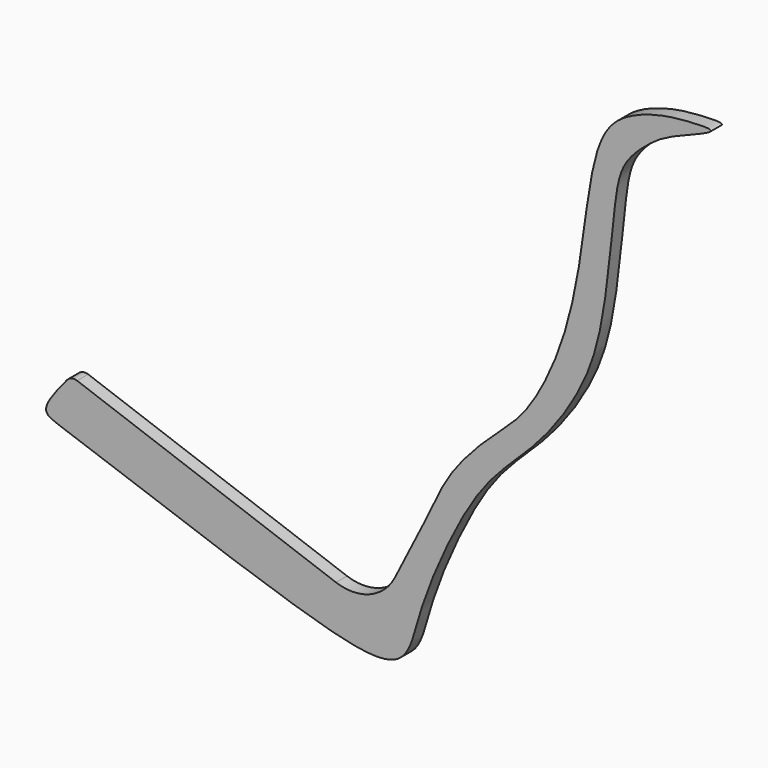
from build123d import *

# Parameters (mm, degrees)
F1_DEPTH = 19.05


with BuildPart() as f1:
    # F0 (on Front) → F1 (new body)
    with BuildSketch(Plane.XZ):
        with BuildLine():
            Line((24.3858303875, -219.1917300224), (-332.3238043113, -90.505011635))
            ThreePointArc((-332.3238043113, -90.505011635), (-339.9437320967, -90.1903517323), (-346.369996661, -94.2971064192))
            add(Edge.make_bspline(
                [(105.533413589, -186.9602054358), (120.5035664294, -158.0857231962), (148.8563864032, -103.3987066039), (178.1343429068, -34.575063737), (236.7987951864, 27.7531144642), (287.3196600748, 67.7275808122), (337.8324652599, 165.0436721704), (362.758052717, 281.7149414874), (374.1084650199, 394.2081253687), (398.4793868421, 468.0281420678), (463.8493937241, 493.1307913517), (504.5543537679, 497.9513609525), (562.8055303999, 500.265186055), (483.9057197523, 473.2134591193), (455.2368049423, 453.648848687), (416.862169302, 418.5409704738), (406.9832359773, 359.1994049961), (394.8885308217, 213.8685027808), (364.8605644892, 124.1517522186), (305.9279943018, 38.9773429034), (237.4979098547, -19.0734903186), (189.5894867008, -94.4817652515), (137.6956175871, -211.7550362745), (122.0458682303, -304.5007866654), (-21.2567677987, -276.1246715598), (-335.8380389916, -158.1206326479), (-386.2829493141, -143.6912980405), (-361.5272028809, -112.3951948535), (-346.369996661, -94.2971064192)],
                knots=[0, 0, 0, 0, 0.0406255141, 0.0769429612, 0.1148250812, 0.1483728035, 0.1912199812, 0.2376738573, 0.2823508835, 0.3178720805, 0.3509399936, 0.3801429542, 0.4029100325, 0.4338675745, 0.4614004007, 0.4894995815, 0.5217188, 0.5720329875, 0.6135375964, 0.6553168145, 0.6945334489, 0.7341570073, 0.7821011157, 0.8175501575, 0.8647494322, 0.9431559258, 0.9670432321, 0.9963460987, 0.9963460987, 0.9963460987, 0.9963460987], degree=3))
            ThreePointArc((105.533413589, -186.9602054358), (71.0653756128, -218.4480966188), (24.3858303875, -219.1917300224))
        make_face()
    extrude(amount=F1_DEPTH)


solid = f1.part
